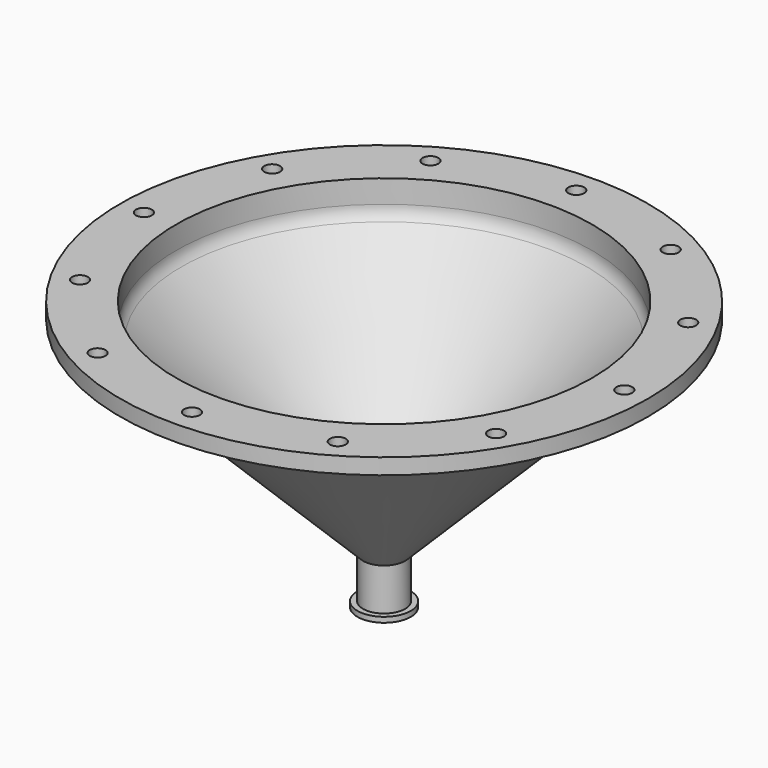
from build123d import *

# Parameters (mm, degrees)
F0_R     = 250
F0_R_2   = 200
F1_DEPTH = 15
F4_R     = 7.5
F5_DEPTH = 15
F6_R     = 20
F7_DEPTH = 40
F8_R     = 25.25
F9_DEPTH = 5


with BuildPart() as f1:
    # F0 (on Top) → F1 (new body)
    with BuildSketch(Plane.XY):
        Circle(F0_R)
        Circle(F0_R_2, mode=Mode.SUBTRACT)
    extrude(amount=F1_DEPTH)

    # F2 (on Front) → F3 (revolve)
    with BuildSketch(Plane.XZ):
        with BuildLine():
            Line((200, -6.715729), (200, 15))
            Line((200, 15), (197, 15))
            Line((197, 15), (197, -6.715729))
            ThreePointArc((197, -6.715729), (195.705952, -13.221347), (192.020815, -18.736544))
            Line((192.020815, -18.736544), (18.757359, -192))
            Line((18.757359, -192), (0, -192))
            Line((0, -192), (0, -195))
            Line((0, -195), (20, -195))
            Line((20, -195), (194.142136, -20.857864))
            ThreePointArc((194.142136, -20.857864), (198.477591, -14.369397), (200, -6.715729))
        make_face()
    revolve(axis=Axis((0, 0, -193.5), (0, 0, -1)))

    # F4 (on face) → F5 (cut, through all)
    with BuildSketch(Plane.XY.offset(15)):
        with Locations((227.5, 0)):
            Circle(F4_R)
        with Locations((197.020779, 113.75)):
            Circle(F4_R)
        with Locations((113.75, 197.020779)):
            Circle(F4_R)
        with Locations((0, 227.5)):
            Circle(F4_R)
        with Locations((-113.75, 197.020779)):
            Circle(F4_R)
        with Locations((-197.020779, 113.75)):
            Circle(F4_R)
        with Locations((-227.5, 0)):
            Circle(F4_R)
        with Locations((-197.020779, -113.75)):
            Circle(F4_R)
        with Locations((-113.75, -197.020779)):
            Circle(F4_R)
        with Locations((0, -227.5)):
            Circle(F4_R)
        with Locations((113.75, -197.020779)):
            Circle(F4_R)
        with Locations((197.020779, -113.75)):
            Circle(F4_R)
    extrude(amount=-F5_DEPTH, mode=Mode.SUBTRACT)

    # F6 (on face) → F7 (join)
    with BuildSketch(Plane(origin=(0, 0, -195), x_dir=(1, 0, 0), z_dir=(0, 0, -1))):
        Circle(F6_R)
    extrude(amount=F7_DEPTH)

    # F8 (on face) → F9 (join)
    with BuildSketch(Plane(origin=(0, 0, -235), x_dir=(1, 0, 0), z_dir=(0, 0, -1))):
        Circle(F8_R)
    extrude(amount=F9_DEPTH)


solid = f1.part
